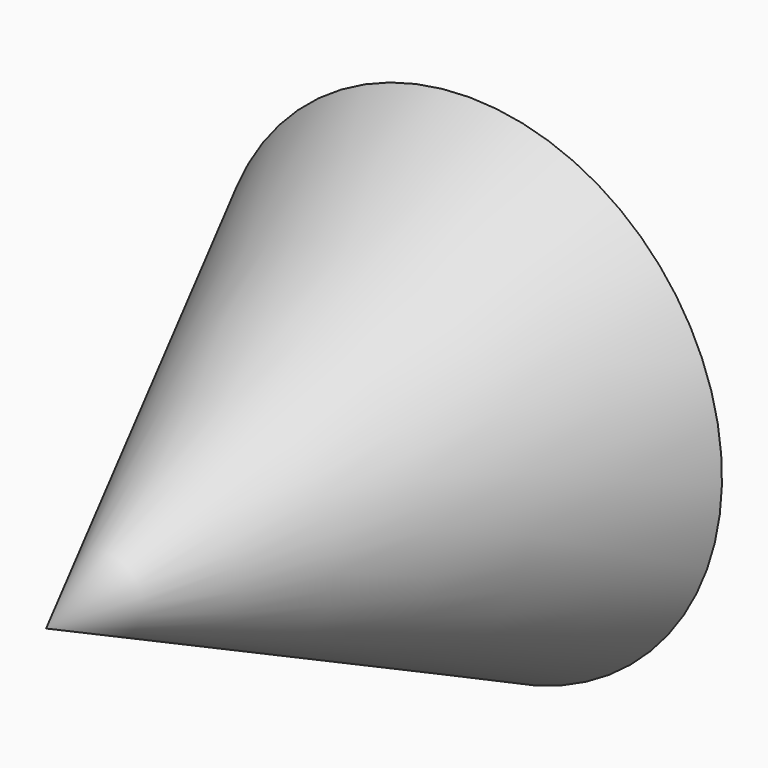
from build123d import *

# Parameters (mm, degrees)
F3_W     = 5.812983
F3_H     = 12.871303
F4_DEPTH = 2.54


with BuildPart() as f2:
    # F0 (on Right) → F2 (revolve)
    with BuildSketch(Plane.YZ):
        Polygon((-33.405118, 0), (0, 0), (0, 15.948515), align=None)
    revolve(axis=Axis((0, -44.302095, 0), (0, 1, 0)))

    # F3 (on Top) → F4 (join)
    with BuildSketch(Plane.XY):
        with Locations((0.042576, 6.435651)):
            Rectangle(F3_W, F3_H)
    extrude(amount=-F4_DEPTH)


solid = f2.part
